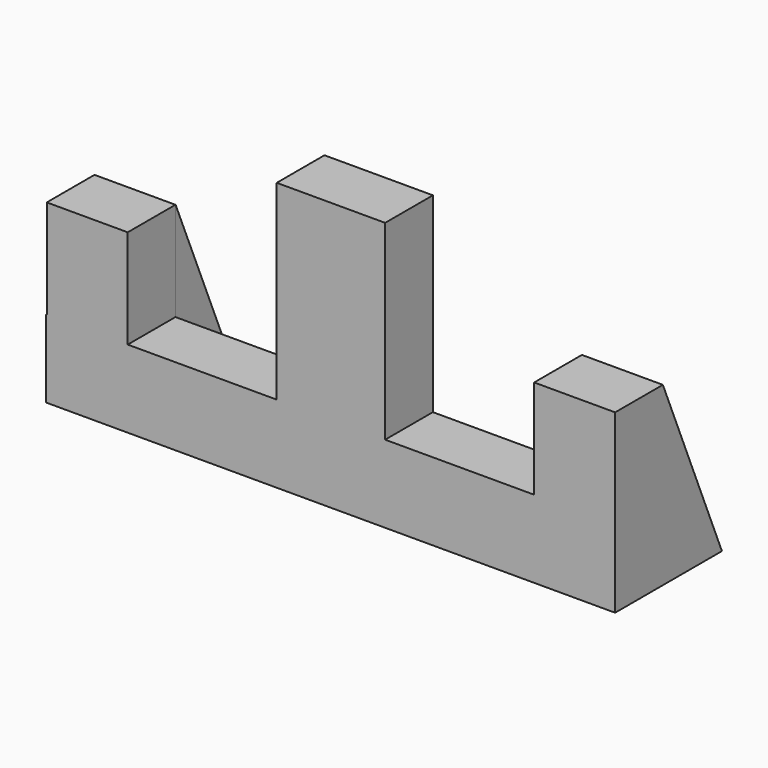
from build123d import *

# Parameters (mm, degrees)
F0_W     = 172.344496
F0_H     = 210.44275
F1_DEPTH = 127
F4_DEPTH = 172.72
F5_DEPTH = 172.72


with BuildPart() as f1:
    # F0 (on Front) → F1 (new body)
    with BuildSketch(Plane.XZ):
        Polygon((0, 109.74871), (0, 0), (0, -296.65129), (115.393949, -296.65129), (115.393949, 109.74871), align=None)
        Polygon((0, -296.65129), (0, 0), (0, 109.74871), (-115.393949, 109.74871), (-115.393949, -296.65129), align=None)
        Polygon((115.393949, -296.65129), (0, -296.65129), (0, -461.782325), (604.993302, -461.782325), (604.993302, -296.65129), (432.648806, -296.65129), align=None)
        Polygon((0, -461.782325), (0, -296.65129), (-115.393949, -296.65129), (-432.648806, -296.65129), (-604.993302, -296.65129), (-606.454597, -296.65129), (-606.454597, -461.782325), align=None)
        with Locations((-518.821054, -191.429915)):
            Rectangle(F0_W, F0_H)
        with Locations((518.821054, -191.429915)):
            Rectangle(F0_W, F0_H)
    extrude(amount=F1_DEPTH)

    # F3 (on face) → F4 (join)
    with BuildSketch(Plane(origin=(-604.993302, 0, 0), x_dir=(0, -1, 0), z_dir=(-1, 0, 0))):
        Polygon((0, -462.243229), (0, -86.20854), (-158.201262, -462.243229), align=None)
    extrude(amount=-F4_DEPTH)

    # F2 (on face) → F5 (join)
    with BuildSketch(Plane.YZ.offset(604.993302)):
        Polygon((157.176092, -461.782325), (0, -86.20854), (0, -461.782325), align=None)
    extrude(amount=-F5_DEPTH)


solid = f1.part
